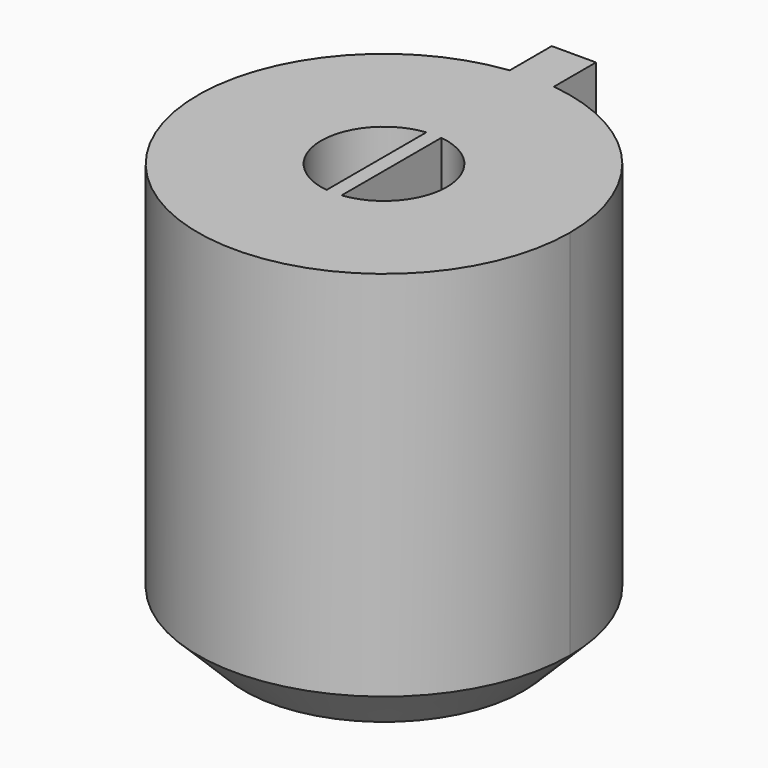
from build123d import *

# Parameters (mm, degrees)
F1_DEPTH = 11.43
F2_R     = 1.7145
F3_DEPTH = 10.16
F4_W     = 0.4064
F4_H     = 5.1579866558
F5_DEPTH = 9.652
F6_SIZE  = 1.27
F7_R     = 2.54


with BuildPart() as f1:
    # F0 (on Top) → F1 (new body)
    with BuildSketch(Plane.XY):
        with BuildLine():
            ThreePointArc((-0.60325, 5.0440548607), (-3.372083184, -3.7994019266), (5.08, 0))
            ThreePointArc((5.08, 0), (3.7994019266, 3.372083184), (0.60325, 5.0440548607))
            Line((0.60325, 5.0440548607), (0.60325, 3.6805351715))
            Line((0.60325, 3.6805351715), (-0.60325, 3.6805351715))
            Line((-0.60325, 3.6805351715), (-0.60325, 5.0440548607))
        make_face()
        with BuildLine():
            Line((0.60325, 3.6805351715), (0.60325, 5.0440548607))
            ThreePointArc((0.60325, 5.0440548607), (0, 5.08), (-0.60325, 5.0440548607))
            Line((-0.60325, 5.0440548607), (-0.60325, 3.6805351715))
            Line((-0.60325, 3.6805351715), (0.60325, 3.6805351715))
        make_face()
        with BuildLine():
            ThreePointArc((-0.60325, 5.0440548607), (0, 5.08), (0.60325, 5.0440548607))
            Line((0.60325, 5.0440548607), (0.60325, 6.4794648285))
            Line((0.60325, 6.4794648285), (-0.60325, 6.4794648285))
            Line((-0.60325, 6.4794648285), (-0.60325, 5.0440548607))
        make_face()
    extrude(amount=-F1_DEPTH)

    # F2 (on face) → F3 (cut)
    with BuildSketch(Plane.XY):
        Circle(F2_R)
    extrude(amount=-F3_DEPTH, mode=Mode.SUBTRACT)

    # F4 (on Top) → F5 (join)
    with BuildSketch(Plane.XY):
        Rectangle(F4_W, F4_H)
    extrude(amount=-F5_DEPTH)

    # F6
    f6_edges = [f1.edges().sort_by_distance(p)[0] for p in [
        (0, -5.08, -11.43),
    ]]
    chamfer(f6_edges, length=F6_SIZE)

    # F7
    f7_edges = [f1.edges().sort_by_distance(p)[0] for p in [
        (0, 6.479465, -11.43),
    ]]
    fillet(f7_edges, radius=F7_R)


solid = f1.part
